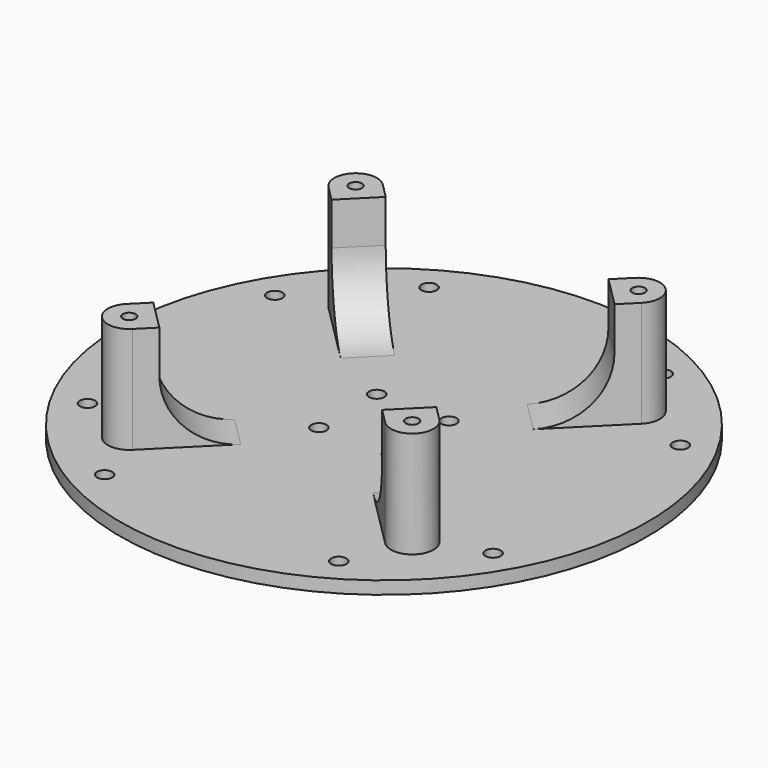
from build123d import *

# Parameters (mm, degrees)
SKETCH003_R             = 62
SKETCH003_R_2           = 1.8
PAD002_DEPTH            = 3
SKETCH005_R             = 5
PAD004_DEPTH            = 28
SKETCH011_R             = 1.8
POCKET004_DEPTH         = 3
PAD011_DEPTH            = 5
PAD012_DEPTH            = 5
SKETCH007_R             = 1.5
POCKET002_DEPTH         = 15
BODY001_PLACEMENT_ANGLE = 180


with BuildPart() as part:
    # Sketch003 → Pad002 (new body)
    with BuildSketch(Plane.XY):
        Circle(SKETCH003_R)
        with Locations((8.485281, 8.485281)):
            Circle(SKETCH003_R_2, mode=Mode.SUBTRACT)
        with Locations((-8.485281, 8.485281)):
            Circle(SKETCH003_R_2, mode=Mode.SUBTRACT)
        with Locations((-8.485281, -8.485281)):
            Circle(SKETCH003_R_2, mode=Mode.SUBTRACT)
        with Locations((8.485281, -8.485281)):
            Circle(SKETCH003_R_2, mode=Mode.SUBTRACT)
    extrude(amount=PAD002_DEPTH)

    # Sketch005 → Pad004 (join)
    with BuildSketch(Plane.XY):
        with Locations((33.234019, 33.234019)):
            Circle(SKETCH005_R)
        with Locations((-33.234019, 33.234019)):
            Circle(SKETCH005_R)
        with Locations((-33.234019, -33.234019)):
            Circle(SKETCH005_R)
        with Locations((33.234019, -33.234019)):
            Circle(SKETCH005_R)
    extrude(amount=PAD004_DEPTH)

    # Sketch011 → Pocket004 (cut, symmetric)
    with BuildSketch(Plane.XY):
        with Locations((27.5, 47.631397)):
            Circle(SKETCH011_R)
        with Locations((-47.631397, 27.5)):
            Circle(SKETCH011_R)
        with Locations((-27.5, -47.631397)):
            Circle(SKETCH011_R)
        with Locations((47.631397, -27.5)):
            Circle(SKETCH011_R)
        with Locations((-27.5, 47.631397)):
            Circle(SKETCH011_R)
        with Locations((47.631397, 27.5)):
            Circle(SKETCH011_R)
        with Locations((27.5, -47.631397)):
            Circle(SKETCH011_R)
        with Locations((-47.631397, -27.5)):
            Circle(SKETCH011_R)
    extrude(amount=POCKET004_DEPTH, both=True, mode=Mode.SUBTRACT)

    # Sketch018 → Pad011 (join, symmetric)
    with BuildSketch(Plane(origin=(0, 0, 0), x_dir=(-0.707107, 0.707107, 0), z_dir=(0.707107, 0.707107, 0))):
        with BuildLine():
            Line((-47, 28), (-47, 3))
            Line((-47, 3), (-27, 3))
            ThreePointArc((-42, 18), (-37.606602, 7.393398), (-27, 3))
            Line((-42, 18), (-42, 28))
            Line((-42, 28), (-47, 28))
        make_face()
        with BuildLine():
            Line((47, 28), (47, 3))
            Line((47, 3), (27, 3))
            ThreePointArc((27, 3), (37.606602, 7.393398), (42, 18))
            Line((42, 18), (42, 28))
            Line((42, 28), (47, 28))
        make_face()
    extrude(amount=PAD011_DEPTH, both=True)

    # Sketch019 → Pad012 (join, symmetric)
    with BuildSketch(Plane(origin=(0, 0, 0), x_dir=(0.707107, 0.707107, 0), z_dir=(0.707107, -0.707107, 0))):
        with BuildLine():
            Line((-47, 28), (-47, 3))
            Line((-47, 3), (-27, 3))
            ThreePointArc((-42, 18), (-37.606602, 7.393398), (-27, 3))
            Line((-42, 18), (-42, 28))
            Line((-42, 28), (-47, 28))
        make_face()
        with BuildLine():
            Line((47, 28), (47, 3))
            Line((47, 3), (27, 3))
            ThreePointArc((27, 3), (37.606602, 7.393398), (42, 18))
            Line((42, 18), (42, 28))
            Line((42, 28), (47, 28))
        make_face()
    extrude(amount=PAD012_DEPTH, both=True)

    # Sketch007 → Pocket002 (cut)
    with BuildSketch(Plane.XY.offset(28)):
        with Locations((33.234019, 33.234019)):
            Circle(SKETCH007_R)
        with Locations((-33.234019, 33.234019)):
            Circle(SKETCH007_R)
        with Locations((-33.234019, -33.234019)):
            Circle(SKETCH007_R)
        with Locations((33.234019, -33.234019)):
            Circle(SKETCH007_R)
    extrude(amount=-POCKET002_DEPTH, mode=Mode.SUBTRACT)


with BuildPart() as part_1:
    # Body001 placement: moved
    add(part.part.moved(Location((0, 0, 25))).rotate(Axis((0, 0, 25), (0, 0, -1)), BODY001_PLACEMENT_ANGLE))


solid = part_1.part
